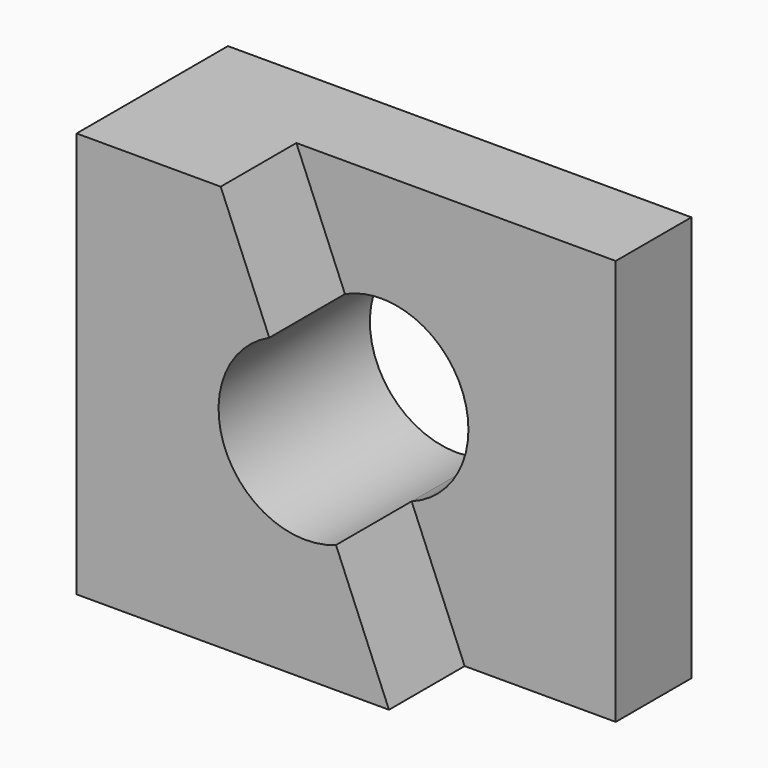
from build123d import *

# Parameters (mm, degrees)
F0_W     = 124.46073
F0_H     = 108.976554
F1_DEPTH = 25.4
F3_DEPTH = 25.4
F5_DEPTH = 50.801


with BuildPart() as f1:
    # F0 (on Front) → F1 (new body)
    with BuildSketch(Plane.XZ):
        with Locations((0.717355, -1.765637)):
            Rectangle(F0_W, F0_H)
    extrude(amount=F1_DEPTH)

    # F2 (on face) → F3 (join)
    with BuildSketch(Plane.XZ.offset(25.4)):
        Polygon((22.376237, -56.253914), (-22.816991, 52.72264), (-61.51301, 52.72264), (-61.51301, -56.253914), align=None)
    extrude(amount=F3_DEPTH)

    # F4 (on face) → F5 (cut, through all)
    with BuildSketch(Plane.XZ.offset(50.8)):
        with BuildLine():
            ThreePointArc((8.141664, -21.929417), (19.204633, -13.355452), (23.392008, 0))
            ThreePointArc((23.392008, 0), (12.623583, 19.69343), (-9.767282, 21.255264))
            Line((-9.767282, 21.255264), (8.141664, -21.929417))
        make_face()
        with BuildLine():
            Line((8.141664, -21.929417), (-9.767282, 21.255264))
            ThreePointArc((-9.767282, 21.255264), (-21.607634, -8.960815), (8.141664, -21.929417))
        make_face()
    extrude(amount=-F5_DEPTH, mode=Mode.SUBTRACT)


solid = f1.part
